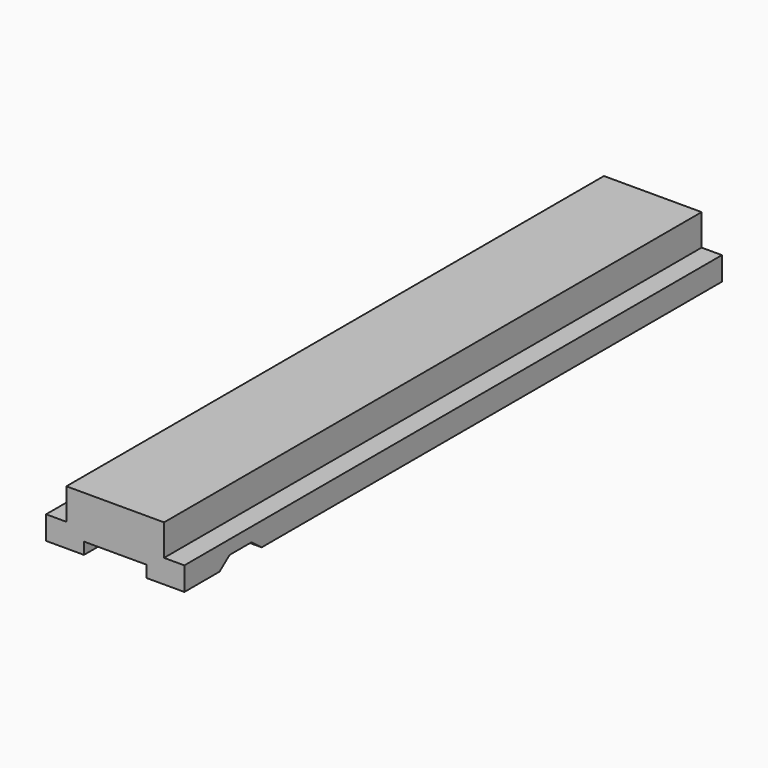
from build123d import *

# Parameters (mm, degrees)
F0_W     = 17.7
F0_H     = 86
F1_DEPTH = 3
F3_DEPTH = 4
F5_DEPTH = 86
F7_DEPTH = 25


with BuildPart() as f1:
    # F0 (on Top) → F1 (new body)
    with BuildSketch(Plane.XY):
        with Locations((-5.174149, 90.714084)):
            Rectangle(F0_W, F0_H)
        with Locations((-5.174149, 90.714084)):
            Rectangle(F0_W, F0_H)
    extrude(amount=F1_DEPTH)

    # F2 (on face) → F3 (join)
    with BuildSketch(Plane.XY.offset(3)):
        Polygon((-11.424149, 47.714084), (-5.174149, 47.714084), (1.075851, 47.714084), (1.075851, 133.714084), (-11.424149, 133.714084), align=None)
    extrude(amount=F3_DEPTH)

    # F4 (on face) → F5 (cut)
    with BuildSketch(Plane.XZ.offset(-47.714084)):
        Polygon((-9.174149, 0), (-5.174149, 0), (-1.174149, 0), (-1.174149, 1.5), (-9.174149, 1.5), align=None)
    extrude(amount=-F5_DEPTH, mode=Mode.SUBTRACT)

    # F6 (on face) → F7 (cut)
    with BuildSketch(Plane(origin=(-14.024149, 0, 0), x_dir=(0, -1, 0), z_dir=(-1, 0, 0))):
        Polygon((-60.08194, 0), (-53.346284, 0), (-54.954443, 1.236051), (-58.471706, 1.236051), align=None)
    extrude(amount=-F7_DEPTH, mode=Mode.SUBTRACT)


solid = f1.part
